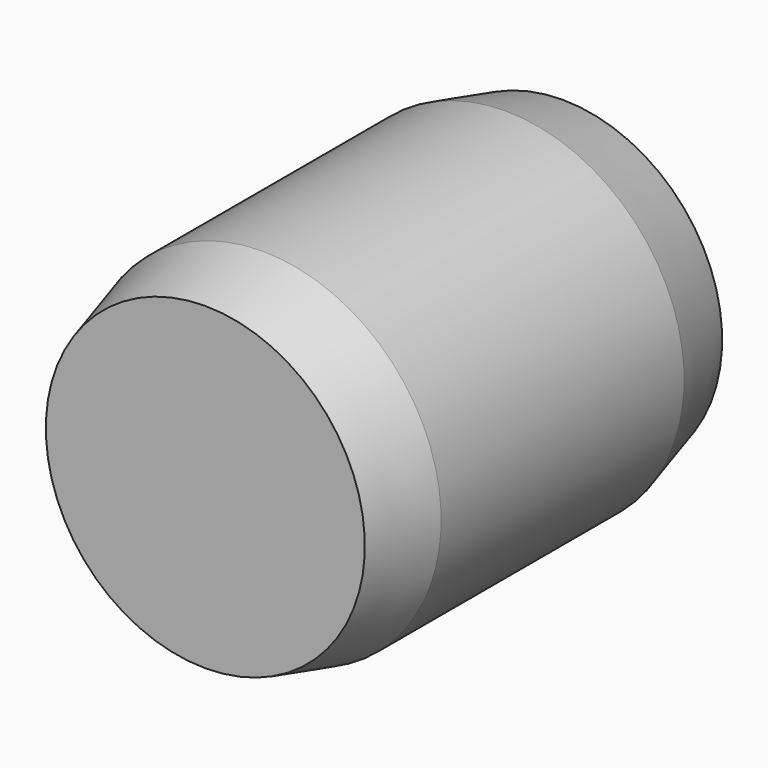
from build123d import *


with BuildPart() as part:
    # Sketch → Revolution (revolve)
    with BuildSketch(Plane.YZ):
        Polygon((0, 0), (0, 3.571281), (1.6, 4), (8.4, 4), (10, 3.571281), (10, 0), align=None)
    revolve(axis=Axis((0, 0, 0), (0, 1, 0)))


solid = part.part
